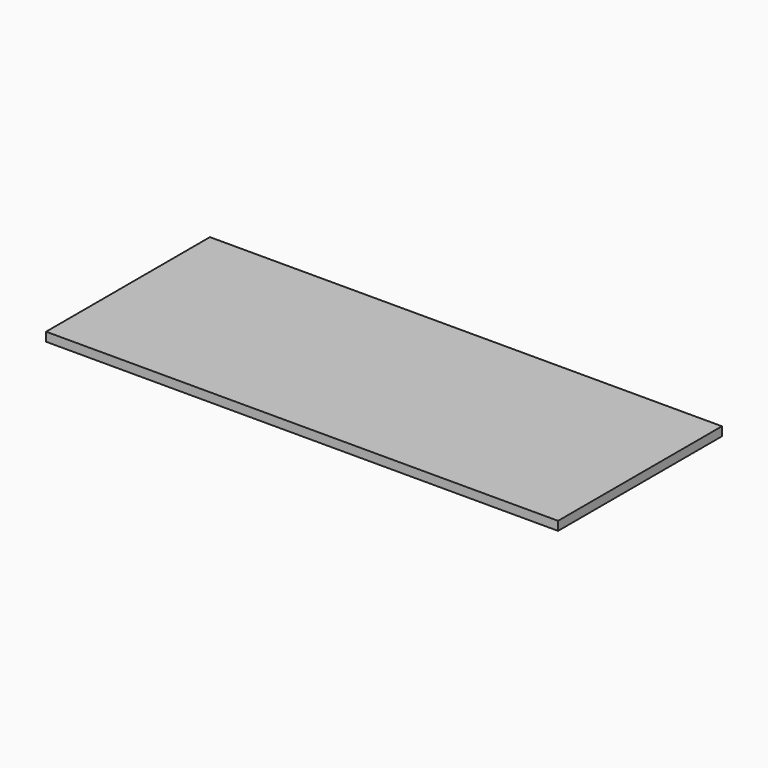
from build123d import *

# Parameters (mm, degrees)
F0_W     = 600
F0_H     = 26
F1_DEPTH = 750
F2_R     = 2.5
F3_DEPTH = 12


with BuildPart() as f1:
    # F0 (on Right) → F1 (new body, symmetric)
    with BuildSketch(Plane.YZ):
        Rectangle(F0_W, F0_H)
    extrude(amount=F1_DEPTH, both=True)

    # F2 (on face) → F3 (cut)
    with BuildSketch(Plane(origin=(0, 0, -13), x_dir=(1, 0, 0), z_dir=(0, 0, -1))):
        with Locations((630, 148)):
            Circle(F2_R)
        with Locations((620, -272)):
            Circle(F2_R)
        with Locations((196.666667, 148)):
            Circle(F2_R)
        with Locations((236.666667, 108)):
            Circle(F2_R)
        with Locations((196.666667, 108)):
            Circle(F2_R)
        with Locations((-670, 148)):
            Circle(F2_R)
        with Locations((-670, 108)):
            Circle(F2_R)
        with Locations((-630, 108)):
            Circle(F2_R)
        with Locations((-680, -272)):
            Circle(F2_R)
        with Locations((-246.666667, -272)):
            Circle(F2_R)
        with Locations((-196.666667, 108)):
            Circle(F2_R)
        with Locations((-236.666667, 108)):
            Circle(F2_R)
        with Locations((-236.666667, 148)):
            Circle(F2_R)
        with Locations((186.666667, -272)):
            Circle(F2_R)
        with Locations((670, 108)):
            Circle(F2_R)
        with Locations((630, 108)):
            Circle(F2_R)
        with Locations((670, 148)):
            Circle(F2_R)
        with Locations((236.666667, 148)):
            Circle(F2_R)
        with Locations((-630, 148)):
            Circle(F2_R)
        with Locations((-620, -272)):
            Circle(F2_R)
        with Locations((-186.666667, -272)):
            Circle(F2_R)
        with Locations((-196.666667, 148)):
            Circle(F2_R)
        with Locations((680, -272)):
            Circle(F2_R)
        with Locations((246.666667, -272)):
            Circle(F2_R)
    extrude(amount=-F3_DEPTH, mode=Mode.SUBTRACT)


solid = f1.part
